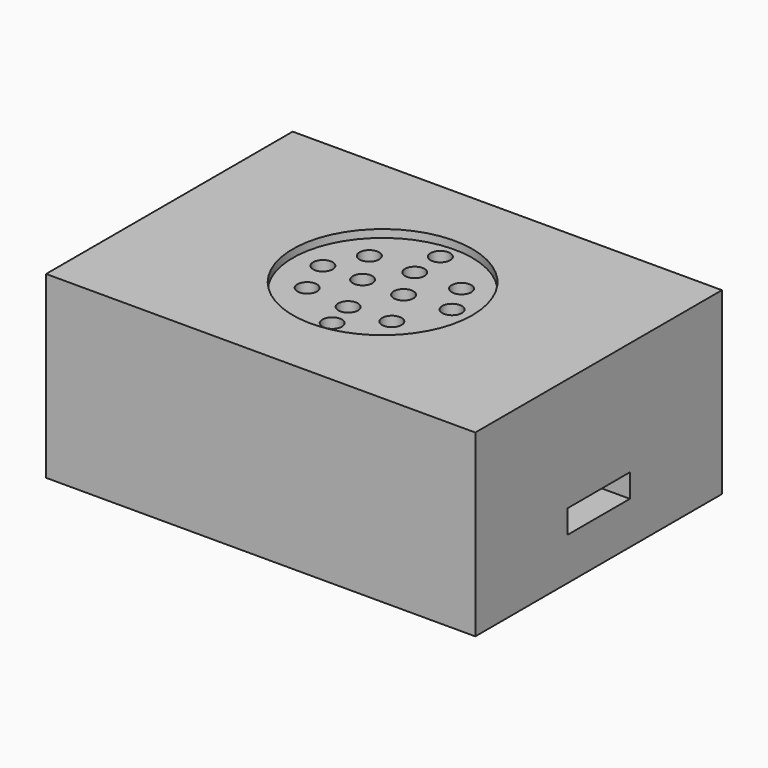
from build123d import *

# Parameters (mm, degrees)
SKETCH057_W     = 55
SKETCH057_H     = 39.5
PAD028_DEPTH    = 23
SKETCH058_W     = 10
SKETCH058_H     = 3
POCKET011_DEPTH = 5
SKETCH059_R     = 11.5
POCKET012_DEPTH = 1
SKETCH060_R     = 1.25
POCKET013_DEPTH = 4
SKETCH061_R     = 1.5
SKETCH061_R_2   = 1.15
POCKET014_DEPTH = 5


with BuildPart() as part:
    # Sketch057 → Pad028 (new body)
    with BuildSketch(Plane.XY):
        with Locations((8.244135, 0.838188)):
            Rectangle(SKETCH057_W, SKETCH057_H)
    extrude(amount=PAD028_DEPTH)

    # Sketch058 (on Face3 of Pad028) → Pocket011 (cut)
    with BuildSketch(Plane.YZ.offset(35.744135)):
        with Locations((0.852094, 6.951404)):
            Rectangle(SKETCH058_W, SKETCH058_H)
    extrude(amount=-POCKET011_DEPTH, mode=Mode.SUBTRACT)

    # Sketch059 (on Face5 of Pocket011) → Pocket012 (cut)
    with BuildSketch(Plane.XY.offset(23)):
        with Locations((8.142509, 0.739769)):
            Circle(SKETCH059_R)
    extrude(amount=-POCKET012_DEPTH, mode=Mode.SUBTRACT)

    # Sketch060 (on Face12 of Pocket012) → Pocket013 (cut)
    with BuildSketch(Plane.XY.offset(22)):
        with Locations((2.355179, 5.854206)):
            Circle(SKETCH060_R)
        with Locations((8.142534, 5.893073)):
            Circle(SKETCH060_R)
        with Locations((13.992255, 6.068044)):
            Circle(SKETCH060_R)
        with Locations((0.067154, 1.278166)):
            Circle(SKETCH060_R)
        with Locations((5.046978, 1.412754)):
            Circle(SKETCH060_R)
        with Locations((10.295966, 1.412754)):
            Circle(SKETCH060_R)
        with Locations((1.82863, -3.450897)):
            Circle(SKETCH060_R)
        with Locations((7.604173, -4.105418)):
            Circle(SKETCH060_R)
        with Locations((12.987754, -3.836237)):
            Circle(SKETCH060_R)
        with Locations((8.547656, -7.839936)):
            Circle(SKETCH060_R)
        with Locations((8.00794, 10.161071)):
            Circle(SKETCH060_R)
        with Locations((16.083309, 1.951109)):
            Circle(SKETCH060_R)
    extrude(amount=-POCKET013_DEPTH, mode=Mode.SUBTRACT)

    # Sketch061 (on Face1 of Pocket013) → Pocket014 (cut)
    with BuildSketch(Plane(origin=(-19.255865, 0, 0), x_dir=(0, -1, 0), z_dir=(-1, 0, 0))):
        with Locations((-14.325696, 5.317757)):
            Circle(SKETCH061_R)
        with Locations((-14.325696, 5.317757)):
            Circle(SKETCH061_R_2, mode=Mode.SUBTRACT)
    extrude(amount=-POCKET014_DEPTH, mode=Mode.SUBTRACT)


with BuildPart() as part_1:
    # Body009 placement: moved
    add(part.part.moved(Location((35, 20, 113))))


solid = part_1.part
